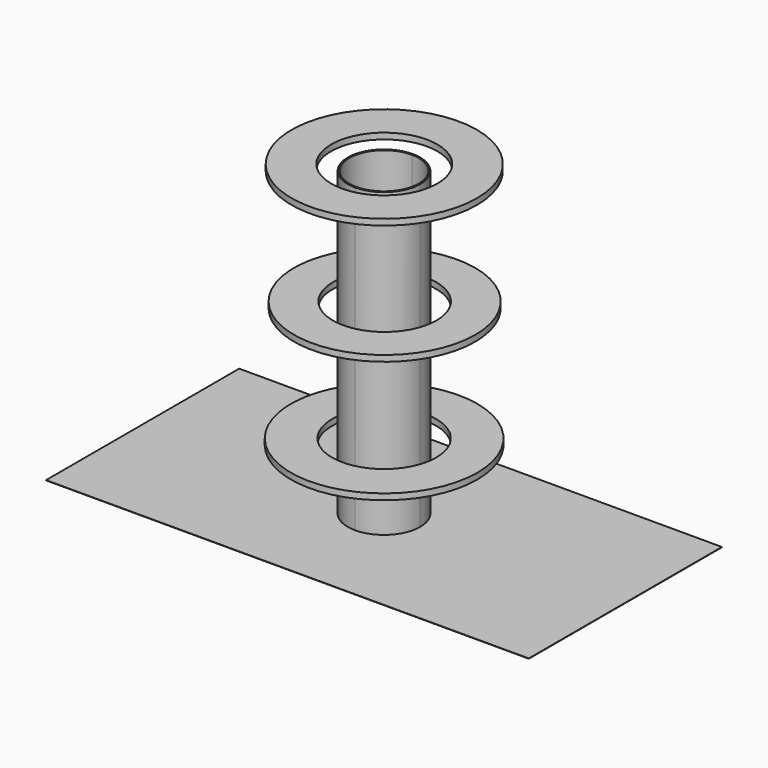
from build123d import *

# Parameters (mm, degrees)
F0_W      = 8000
F0_H      = 4000
F1_DEPTH  = 5
F3_DEPTH  = 5000
F4_T      = -25
F8_R      = 1535.331616
F8_R_2    = 879.940091
F9_DEPTH  = 100
F10_R     = 1502.360966
F10_R_2   = 857.89736
F11_DEPTH = 100
F12_R     = 1545.16043
F12_R_2   = 863.549407
F13_DEPTH = 100


with BuildPart() as f1:
    # F0 (on Top) → F1 (new body)
    with BuildSketch(Plane.XY):
        with Locations((3872.095021, 1986.468735)):
            Rectangle(F0_W, F0_H)
    extrude(amount=F1_DEPTH)

    # F2 (on face) → F3 (join)
    with BuildSketch(Plane.XY.offset(5)):
        with BuildLine():
            ThreePointArc((3872.095021, 1386.468735), (4296.35909, 1562.204666), (4472.095021, 1986.468735))
            ThreePointArc((4472.095021, 1986.468735), (4296.35909, 2410.732804), (3872.095021, 2586.468735))
            Line((3872.095021, 2586.468735), (3872.095021, 1386.468735))
        make_face()
        with BuildLine():
            Line((3872.095021, 1386.468735), (3872.095021, 2586.468735))
            ThreePointArc((3872.095021, 2586.468735), (3272.095021, 1986.468735), (3872.095021, 1386.468735))
        make_face()
    extrude(amount=F3_DEPTH)

    # F4
    f4_openings = [f1.faces().sort_by_distance(p)[0] for p in [
        (3872.095021, 1986.468735, 5005),
    ]]
    offset(amount=F4_T, openings=f4_openings)


with BuildPart() as f9:
    # F8 (on offset) → F9 (new body)
    with BuildSketch(Plane.XY.offset(5000)):
        with Locations((3870.033026, 1994.915366)):
            Circle(F8_R)
        with Locations((3870.033026, 1994.915366)):
            Circle(F8_R_2, mode=Mode.SUBTRACT)
    extrude(amount=F9_DEPTH)


with BuildPart() as f11:
    # F10 (on offset) → F11 (new body)
    with BuildSketch(Plane.XY.offset(3000)):
        with Locations((3878.281593, 1991.771221)):
            Circle(F10_R)
        with Locations((3878.281593, 1991.771221)):
            Circle(F10_R_2, mode=Mode.SUBTRACT)
    extrude(amount=F11_DEPTH)


with BuildPart() as f13:
    # F12 (on offset) → F13 (new body)
    with BuildSketch(Plane.XY.offset(1000)):
        with Locations((3870.033026, 1991.771221)):
            Circle(F12_R)
        with Locations((3870.033026, 1991.771221)):
            Circle(F12_R_2, mode=Mode.SUBTRACT)
    extrude(amount=F13_DEPTH)


solid = Compound([f1.part, f9.part, f11.part, f13.part])
